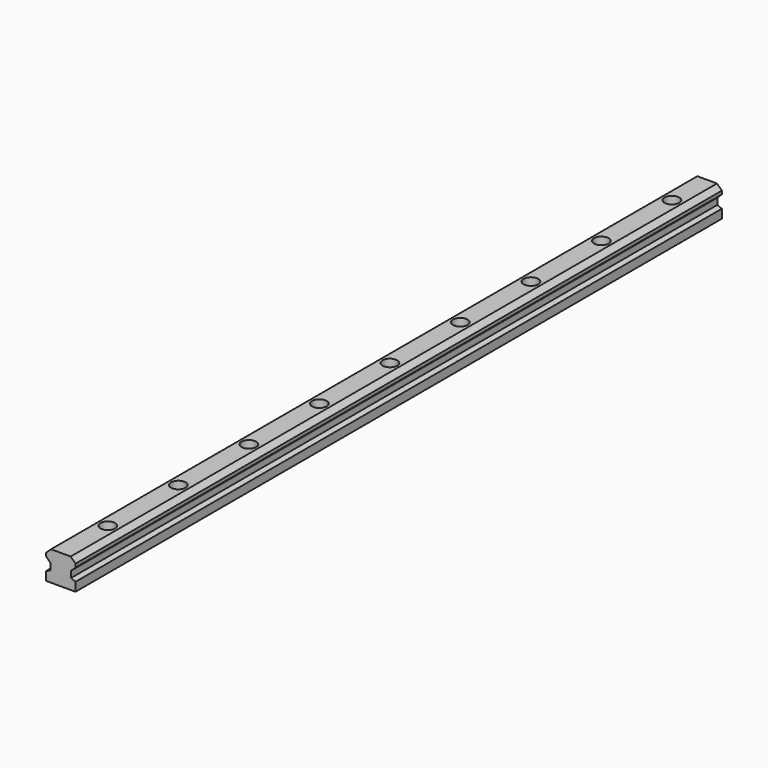
from build123d import *

# Parameters (mm, degrees)
F1_DEPTH = 550
F2_R     = 5
F3_DEPTH = 8
F4_R     = 3
F5_DEPTH = 25


with BuildPart() as f1:
    # F0 (on Front) → F1 (new body)
    with BuildSketch(Plane.XZ):
        Polygon((-10.057273, 16.915944), (-10.049546, 14.631567), (-6.896546, 11.585374), (-6.946251, 7.275085), (-10, 6.01058), (-10, 0), (0, 0), (10, 0), (10, 6.01058), (6.946251, 7.275085), (6.896546, 11.585374), (10.049546, 14.631567), (10.057273, 16.915944), (6.693856, 20.07125), (0, 20.07125), (-6.693856, 20.07125), align=None)
    extrude(amount=F1_DEPTH)

    # F2 (on face) → F3 (cut)
    with BuildSketch(Plane.XY.offset(20.07125)):
        with Locations((0, -510)):
            Circle(F2_R)
        with Locations((0, -450)):
            Circle(F2_R)
        with Locations((0, -390)):
            Circle(F2_R)
        with Locations((0, -330)):
            Circle(F2_R)
        with Locations((0, -270)):
            Circle(F2_R)
        with Locations((0, -210)):
            Circle(F2_R)
        with Locations((0, -150)):
            Circle(F2_R)
        with Locations((0, -90)):
            Circle(F2_R)
        with Locations((0, -30)):
            Circle(F2_R)
    extrude(amount=-F3_DEPTH, mode=Mode.SUBTRACT)

    # F4 (on face) → F5 (cut)
    with BuildSketch(Plane.XY.offset(12.07125)):
        with Locations((0, -510)):
            Circle(F4_R)
        with Locations((0, -450)):
            Circle(F4_R)
        with Locations((0, -390)):
            Circle(F4_R)
        with Locations((0, -330)):
            Circle(F4_R)
        with Locations((0, -270)):
            Circle(F4_R)
        with Locations((0, -210)):
            Circle(F4_R)
        with Locations((0, -150)):
            Circle(F4_R)
        with Locations((0, -30)):
            Circle(F4_R)
        with Locations((0, -90)):
            Circle(F4_R)
    extrude(amount=-F5_DEPTH, mode=Mode.SUBTRACT)


solid = f1.part
